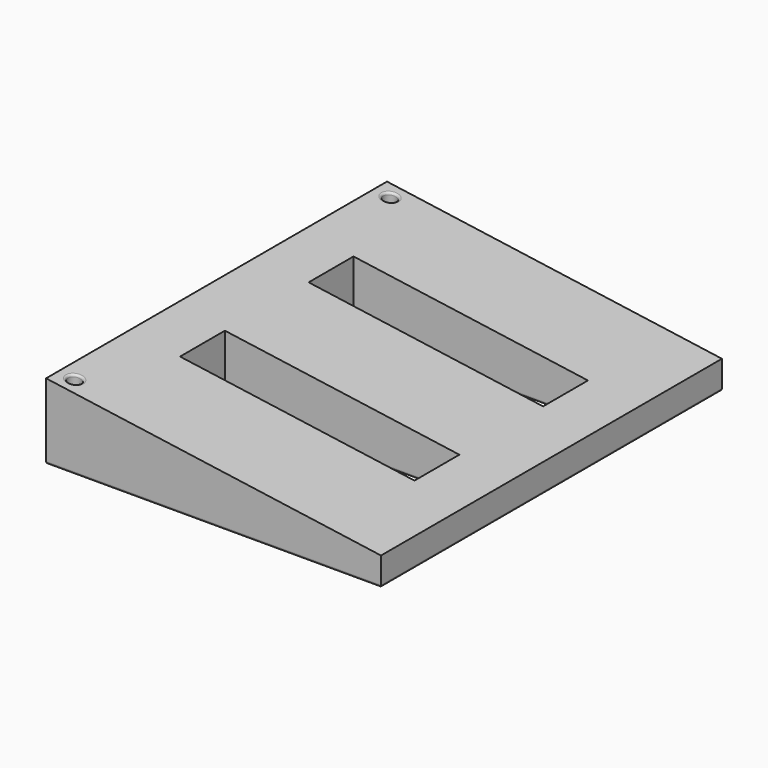
from build123d import *

# Parameters (mm, degrees)
F1_DEPTH = 101.789
F2_W     = 56
F2_H     = 13.3945
F3_DEPTH = 25
F4_R     = 1.6
F5_DEPTH = 15
F6_R     = 0.5


with BuildPart() as f1:
    # F0 (on Front) → F1 (new body)
    with BuildSketch(Plane.XZ):
        Polygon((-80, 0), (0, 0), (0, 6.7567332238), (-80, 18), align=None)
    extrude(amount=F1_DEPTH)

    # F2 (on face) → F3 (cut)
    with BuildSketch(Plane(origin=(0, 0, 0), x_dir=(1, 0, 0), z_dir=(0, 0, -1))):
        with Locations((-40, 70.09175)):
            Rectangle(F2_W, F2_H)
        with Locations((-40, 31.69725)):
            Rectangle(F2_W, F2_H)
    extrude(amount=-F3_DEPTH, mode=Mode.SUBTRACT)

    # F4 (on face) → F5 (cut)
    with BuildSketch(Plane(origin=(0.9312040399, 0, 6.6258610308), x_dir=(0.9902680687, 0, -0.139173101), z_dir=(0.139173101, 0, 0.9902680687))):
        with Locations((-77.9165613166, -3.81)):
            Circle(F4_R)
        with Locations((-77.9165613166, -97.979)):
            Circle(F4_R)
    extrude(amount=-F5_DEPTH, mode=Mode.SUBTRACT)

    # F6
    f6_edges = [f1.edges().sort_by_distance(p)[0] for p in [
        (-77.811508, -97.979, 17.692427),
        (-77.811508, -3.81, 17.692427),
        (-80, -50.8945, 0),
        (-40, 0, 0),
        (-40, -101.789, 0),
        (0, -50.8945, 0),
        (-12, -70.09175, 0),
        (-40, -63.3945, 0),
        (-68, -70.09175, 0),
        (-40, -76.789, 0),
        (-40, -25, 0),
        (-68, -31.69725, 0),
        (-40, -38.3945, 0),
        (-12, -31.69725, 0),
    ]]
    fillet(f6_edges, radius=F6_R)


solid = f1.part
